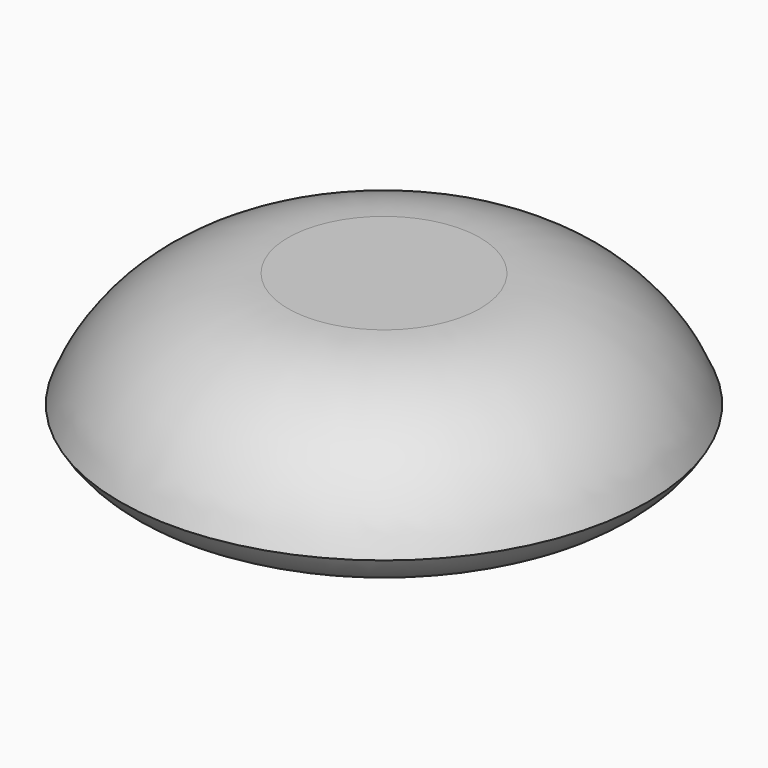
from build123d import *


with BuildPart() as f1:
    # F0 (on Front) → F1 (revolve)
    with BuildSketch(Plane.XZ):
        with BuildLine():
            Line((8, 0), (0, 0))
            Line((0, 0), (0, -13.148942))
            Line((0, -13.148942), (15.921406, -13.148942))
            ThreePointArc((15.921406, -13.148942), (19.437057, -12.201208), (22, -9.614835))
            ThreePointArc((22, -9.614835), (16.491835, -2.635182), (8, 0))
        make_face()
        with BuildLine():
            Line((15.921406, -13.148942), (0, -13.148942))
            Line((0, -13.148942), (0, -15))
            Line((0, -15), (10.476163, -15))
            ThreePointArc((10.476163, -15), (13.351797, -14.524587), (15.921406, -13.148942))
        make_face()
    revolve(axis=Axis((0, 0, -7.5), (0, 0, -1)))


solid = f1.part
